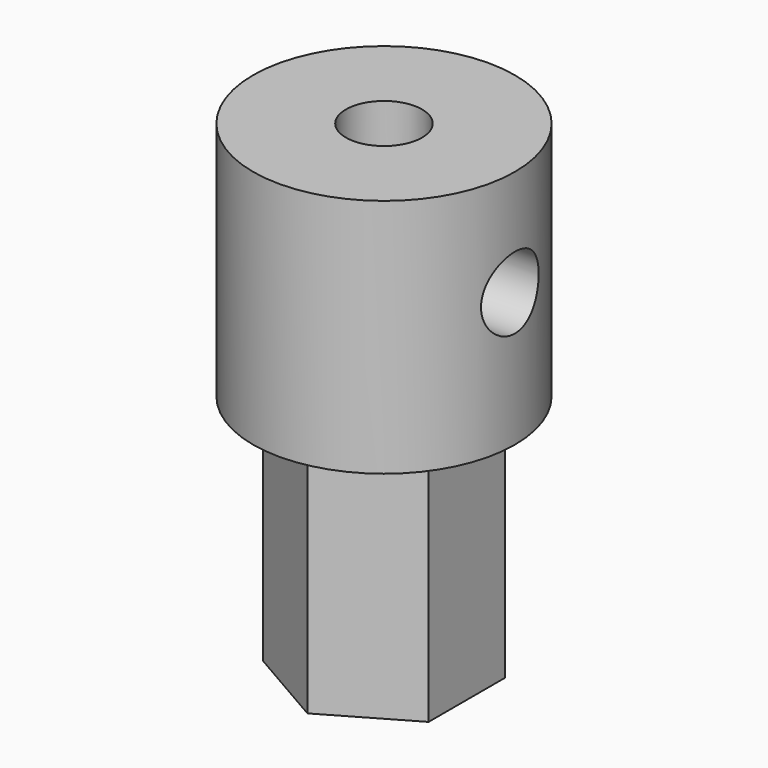
from build123d import *

# Parameters (mm, degrees)
F0_R     = 1.25
F1_DEPTH = 10
F2_R     = 5.45
F2_R_2   = 1.25
F3_DEPTH = 10
F4_R     = 1.5875
F5_DEPTH = 15
F6_R     = 1.5
F7_DEPTH = 12.5


with BuildPart() as f1:
    # F0 (on Top) → F1 (new body)
    with BuildSketch(Plane.XY):
        Polygon((2.2317760525, -3.1025133052), (5.6817760525, -1.1106548765), (5.6817760525, 2.8730619809), (2.2317760525, 4.8649204096), (-1.2182239475, 2.8730619809), (-1.2182239475, -1.1106548765), align=None)
        with Locations((2.2317760525, 0.8812035522)):
            Circle(F0_R, mode=Mode.SUBTRACT)
    extrude(amount=F1_DEPTH)

    # F2 (on face) → F3 (join)
    with BuildSketch(Plane.XY.offset(10)):
        with Locations((2.2317760525, 0.8812035522)):
            Circle(F2_R)
        Polygon((2.2317760525, -3.1025133052), (-1.2182239475, -1.1106548765), (-1.2182239475, 2.8730619809), (2.2317760525, 4.8649204096), (5.6817760525, 2.8730619809), (5.6817760525, -1.1106548765), align=None, mode=Mode.SUBTRACT)
        Polygon((-1.2182239475, 2.8730619809), (-1.2182239475, -1.1106548765), (2.2317760525, -3.1025133052), (5.6817760525, -1.1106548765), (5.6817760525, 2.8730619809), (2.2317760525, 4.8649204096), align=None)
        with Locations((2.2317760525, 0.8812035522)):
            Circle(F2_R_2, mode=Mode.SUBTRACT)
        with Locations((2.2317760525, 0.8812035522)):
            Circle(F2_R_2)
    extrude(amount=F3_DEPTH)

    # F4 (on face) → F5 (cut)
    with BuildSketch(Plane.XY.offset(20)):
        with Locations((2.2317760525, 0.8812035522)):
            Circle(F4_R)
    extrude(amount=-F5_DEPTH, mode=Mode.SUBTRACT)

    # F6 (on face) → F7 (cut, symmetric)
    with BuildSketch(Plane.YZ.offset(5.6817760525)):
        with Locations((0.8812035522, 15.5740641057)):
            Circle(F6_R)
    extrude(amount=F7_DEPTH, both=True, mode=Mode.SUBTRACT)


solid = f1.part
